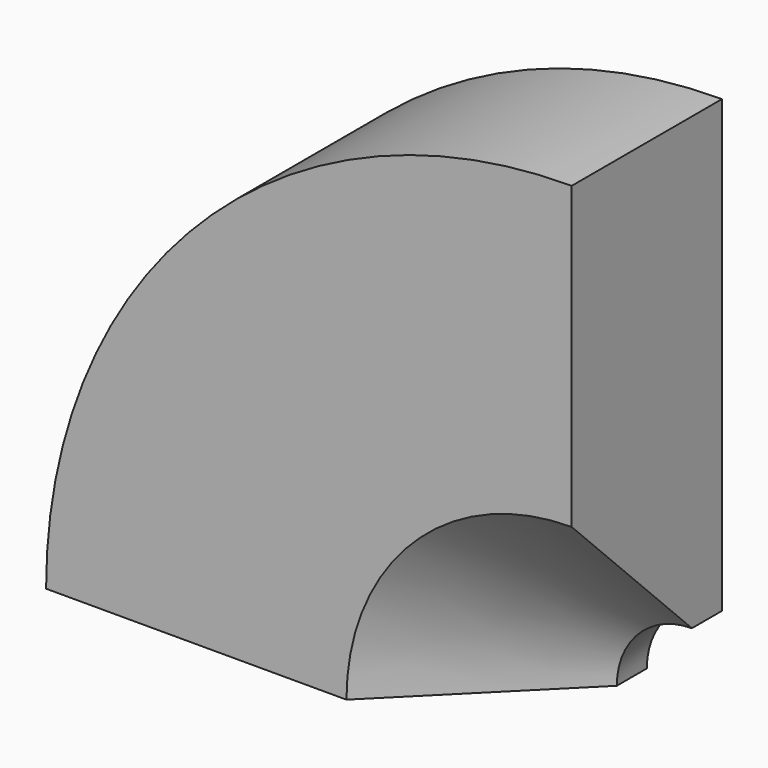
from build123d import *

# Parameters (mm, degrees)
F1_DEPTH = 25
F2_SIZE  = 20


with BuildPart() as f1:
    # F0 (on Front) → F1 (new body)
    with BuildSketch(Plane.XZ):
        with BuildLine():
            Line((0, 10), (0, 70))
            ThreePointArc((0, 70), (-49.497475, 49.497475), (-70, 0))
            Line((-70, 0), (-10, 0))
            ThreePointArc((-10, 0), (-7.071068, 7.071068), (0, 10))
        make_face()
    extrude(amount=F1_DEPTH)

    # F2
    f2_edges = [f1.edges().sort_by_distance(p)[0] for p in [
        (-7.071068, -25, 7.071068),
    ]]
    chamfer(f2_edges, length=F2_SIZE)


solid = f1.part
